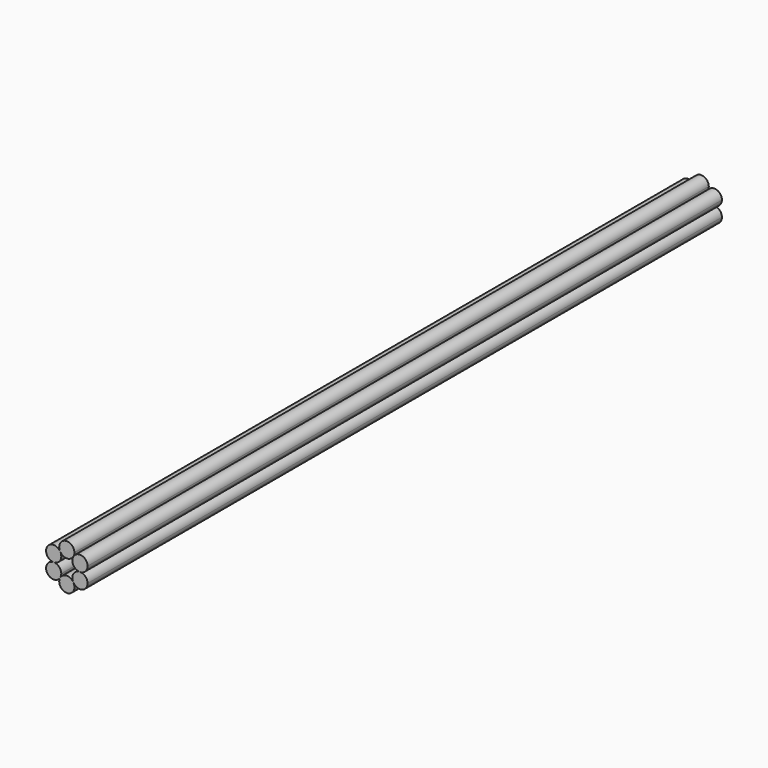
from build123d import *

# Parameters (mm, degrees)
F1_DEPTH = 304.8


with BuildPart() as f1:
    # F0 (on Front) → F1 (new body)
    with BuildSketch(Plane.XZ):
        with BuildLine():
            ThreePointArc((2.5273, -1.46458), (2.820858, -0.758287), (2.921, 0))
            ThreePointArc((2.921, 0), (-0.758287, 2.820858), (-2.5273, -1.46458))
            ThreePointArc((-2.5273, -1.46458), (0, -2.921), (2.5273, -1.46458))
        make_face()
        with BuildLine():
            ThreePointArc((-2.1336, -2.929161), (-2.233742, -2.170874), (-2.5273, -1.46458))
            ThreePointArc((-2.5273, -1.46458), (-7.585438, -1.470702), (-5.0546, -5.850161))
            ThreePointArc((-5.0546, -5.850161), (-2.989141, -4.99462), (-2.1336, -2.929161))
        make_face()
        with BuildLine():
            ThreePointArc((-2.1336, -8.771161), (-2.989141, -6.705702), (-5.0546, -5.850161))
            ThreePointArc((-5.0546, -5.850161), (-7.585438, -10.229619), (-2.5273, -10.235742))
            ThreePointArc((-2.5273, -10.235742), (-2.233742, -9.529448), (-2.1336, -8.771161))
        make_face()
        with BuildLine():
            ThreePointArc((2.5273, -10.23574), (-1e-06, -8.779322), (-2.5273, -10.235742))
            ThreePointArc((-2.5273, -10.235742), (-0.758286, -14.52118), (2.921, -11.700322))
            ThreePointArc((2.921, -11.700322), (2.820858, -10.942034), (2.5273, -10.23574))
        make_face()
        with BuildLine():
            ThreePointArc((7.9756, -8.771161), (7.120059, -6.705702), (5.0546, -5.850161))
            ThreePointArc((5.0546, -5.850161), (2.523762, -7.312702), (2.5273, -10.23574))
            ThreePointArc((2.5273, -10.23574), (5.812886, -11.592019), (7.9756, -8.771161))
        make_face()
        with BuildLine():
            ThreePointArc((7.9756, -2.929161), (5.812887, -0.108302), (2.5273, -1.46458))
            ThreePointArc((2.5273, -1.46458), (2.523762, -4.387619), (5.0546, -5.850161))
            ThreePointArc((5.0546, -5.850161), (7.120059, -4.99462), (7.9756, -2.929161))
        make_face()
    extrude(amount=F1_DEPTH)


solid = f1.part
